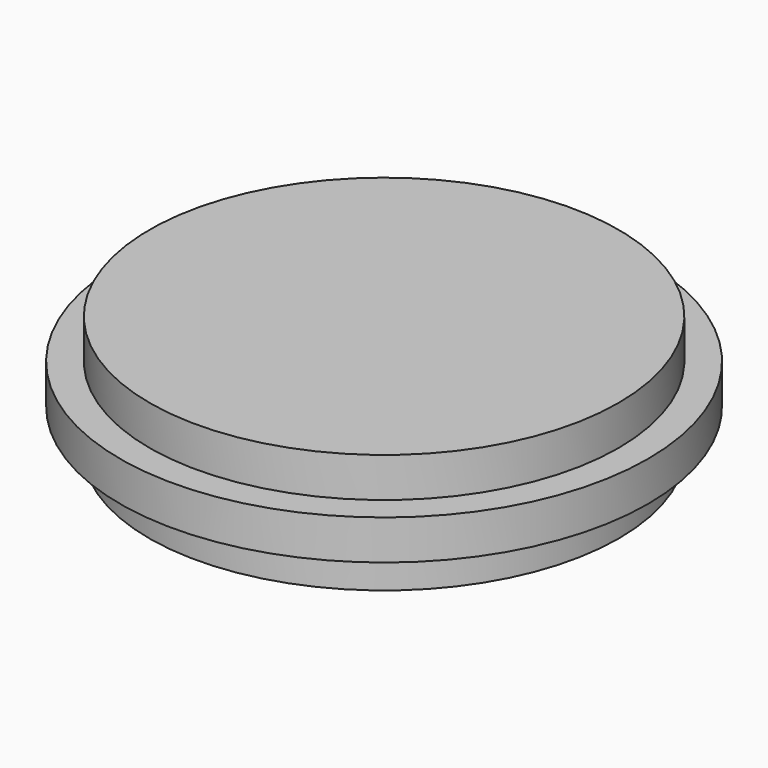
from build123d import *

# Parameters (mm, degrees)
F0_R      = 84.454648138
F3_DEPTH  = 12.7
F1_R      = 84.454648138
F2_R      = 84.454648138
F5_R      = 75.179264918
F7_DEPTH  = 12.7
F9_R      = 75.0302642661
F10_DEPTH = 12.7


with BuildPart() as f3:
    # F0 (on Top) → F3 (new body)
    with BuildSketch(Plane.XY):
        with Locations((-62.6023933291, 40.8790819347)):
            Circle(F0_R)
    extrude(amount=F3_DEPTH)


with BuildPart() as f3b:
    # F1 (on face) → F3, piece 2 (new body)
    with BuildSketch(Plane.XY):
        with Locations((-62.6023933291, 40.8790819347)):
            Circle(F1_R)
    extrude(amount=F3_DEPTH)


with BuildPart() as f3c:
    # F2 (on face) → F3, piece 3 (new body)
    with BuildSketch(Plane.XY):
        with Locations((-62.6023933291, 40.8790819347)):
            Circle(F2_R)
    extrude(amount=F3_DEPTH)


with BuildPart() as f7:
    # F5 (on face) → F7 (new body)
    with BuildSketch(Plane(origin=(0, 0, 0), x_dir=(1, 0, 0), z_dir=(0, 0, -1))):
        with Locations((-62.6023933291, -40.8790819347)):
            Circle(F5_R)
    extrude(amount=F7_DEPTH)


with BuildPart() as f10:
    # F9 (on face) → F10 (new body)
    with BuildSketch(Plane.XY.offset(12.7)):
        with Locations((-62.6023933291, 40.8790819347)):
            Circle(F9_R)
    extrude(amount=F10_DEPTH)


solid = Compound([f3.part, f3b.part, f3c.part, f7.part, f10.part])
